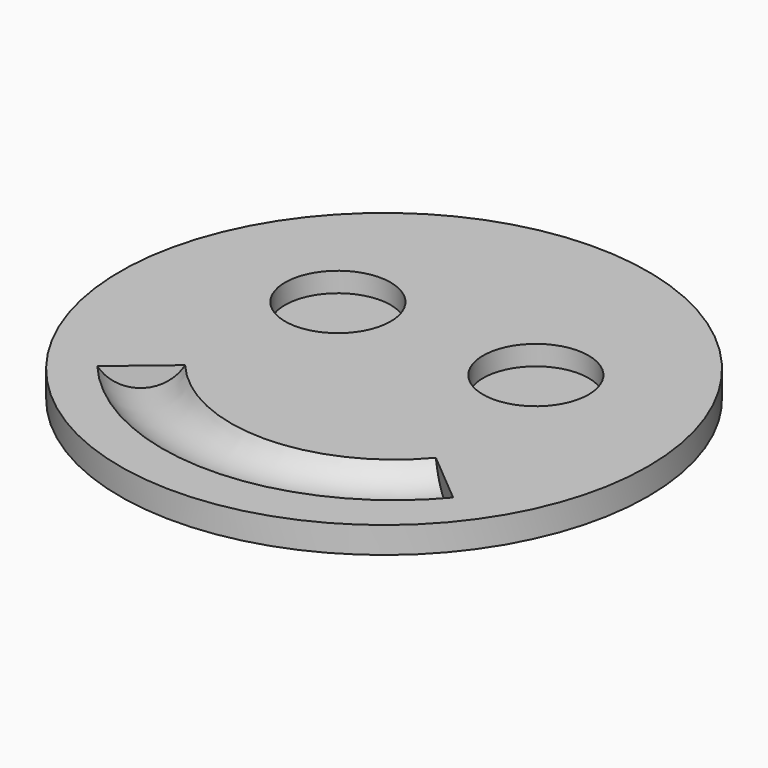
from build123d import *

# Parameters (mm, degrees)
TORUS_R               = 6
TORUS_ANGLE           = 100
TORUS_PLACEMENT_ANGLE = 140
CYLINDER002_R         = 8
CYLINDER002_DEPTH     = 10
CYLINDER001_R         = 8
CYLINDER001_DEPTH     = 10
CYLINDER_R            = 40
CYLINDER_DEPTH        = 4


with BuildPart() as torus:
    # Torus → Torus (revolve)
    with BuildSketch(Plane.XZ):
        with Locations((30, 0)):
            Circle(TORUS_R)
    revolve(axis=Axis((0, 0, 0), (0, 0, 1)), revolution_arc=TORUS_ANGLE)


with BuildPart() as torus_1:
    # Torus placement: moved
    add(torus.part.moved(Location((0, 2, 7))).rotate(Axis((0, 2, 7), (0, 0, -1)), TORUS_PLACEMENT_ANGLE))


with BuildPart() as cylinder002:
    # Cylinder002 → Cylinder002 (new body)
    with BuildSketch(Plane(origin=(15, 10, 1), x_dir=(1, 0, 0), z_dir=(0, 0, 1))):
        Circle(CYLINDER002_R)
    extrude(amount=CYLINDER002_DEPTH)


with BuildPart() as cylinder001:
    # Cylinder001 → Cylinder001 (new body)
    with BuildSketch(Plane(origin=(-15, 10, 1), x_dir=(1, 0, 0), z_dir=(0, 0, 1))):
        Circle(CYLINDER001_R)
    extrude(amount=CYLINDER001_DEPTH)


with BuildPart() as cut002:
    # Cylinder → Cylinder (new body)
    with BuildSketch(Plane.XY):
        Circle(CYLINDER_R)
    extrude(amount=CYLINDER_DEPTH)

    # Cut: cut Cylinder001
    add(cylinder001.part, mode=Mode.SUBTRACT)

    # Cut001: cut Cylinder002
    add(cylinder002.part, mode=Mode.SUBTRACT)

    # Cut002: cut Torus
    add(torus_1.part, mode=Mode.SUBTRACT)


solid = cut002.part
